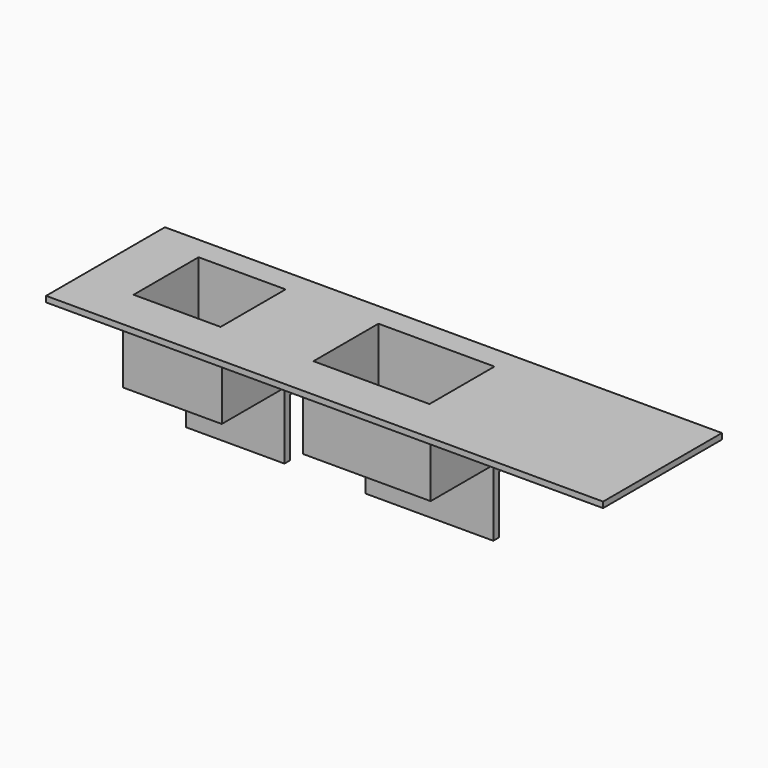
from build123d import *

# Parameters (mm, degrees)
F0_W      = 90
F0_H      = 19.6
F0_W_2    = 15
F0_H_2    = 14
F0_W_3    = 20
F1_DEPTH  = 1
F2_W      = 17
F2_H      = 16
F2_W_2    = 15
F2_H_2    = 14
F2_W_3    = 22
F2_W_4    = 20
F3_DEPTH  = 13
F4_W      = 96
F4_H      = 25.6
F4_W_2    = 15
F4_H_2    = 14
F4_W_3    = 20
F5_DEPTH  = 1
F6_W      = 17
F6_H      = 2.5
F7_W      = 22
F7_H      = 2.5
F8_DEPTH  = 1.5
F10_W     = 17
F10_H     = 1.25
F10_W_2   = 22
F11_DEPTH = 10


with BuildPart() as f1:
    # F0 (on Top) → F1 (new body)
    with BuildSketch(Plane.XY):
        with Locations((45, 9.8)):
            Rectangle(F0_W, F0_H)
        with Locations((13.5, 11.6)):
            Rectangle(F0_W_2, F0_H_2, mode=Mode.SUBTRACT)
        with Locations((47, 11.6)):
            Rectangle(F0_W_3, F0_H_2, mode=Mode.SUBTRACT)
    extrude(amount=F1_DEPTH)

    # F2 (on face) → F3 (join)
    with BuildSketch(Plane(origin=(0, 0, 0), x_dir=(1, 0, 0), z_dir=(0, 0, -1))):
        with Locations((13.5, -11.6)):
            Rectangle(F2_W, F2_H)
        with Locations((13.5, -11.6)):
            Rectangle(F2_W_2, F2_H_2, mode=Mode.SUBTRACT)
        with Locations((47, -11.6)):
            Rectangle(F2_W_3, F2_H)
        with Locations((47, -11.6)):
            Rectangle(F2_W_4, F2_H_2, mode=Mode.SUBTRACT)
    extrude(amount=F3_DEPTH)

    # F4 (on Top) → F5 (join, through all)
    with BuildSketch(Plane.XY):
        with Locations((45, 9.8)):
            Rectangle(F4_W, F4_H)
        with Locations((13.5, 11.6)):
            Rectangle(F4_W_2, F4_H_2, mode=Mode.SUBTRACT)
        with Locations((47, 11.6)):
            Rectangle(F4_W_3, F4_H_2, mode=Mode.SUBTRACT)
    extrude(amount=F5_DEPTH)

    # F6 (on face) + F7 (on face) → F8 (join)
    with BuildSketch(Plane(origin=(0, 0, -13), x_dir=(1, 0, 0), z_dir=(0, 0, -1))):
        with Locations((13.5, -18.35)):
            Rectangle(F6_W, F6_H)
    with BuildSketch(Plane(origin=(0, 0, -13), x_dir=(1, 0, 0), z_dir=(0, 0, -1))):
        with Locations((47, -18.35)):
            Rectangle(F7_W, F7_H)
    extrude(amount=F8_DEPTH)

    # F10 (on 3pt) → F11 (join)
    with BuildSketch(Plane.XY.offset(-14.5)):
        with Locations((13.5, 17.725)):
            Rectangle(F10_W, F10_H)
        with Locations((47, 17.725)):
            Rectangle(F10_W_2, F10_H)
    extrude(amount=-F11_DEPTH)


solid = f1.part
